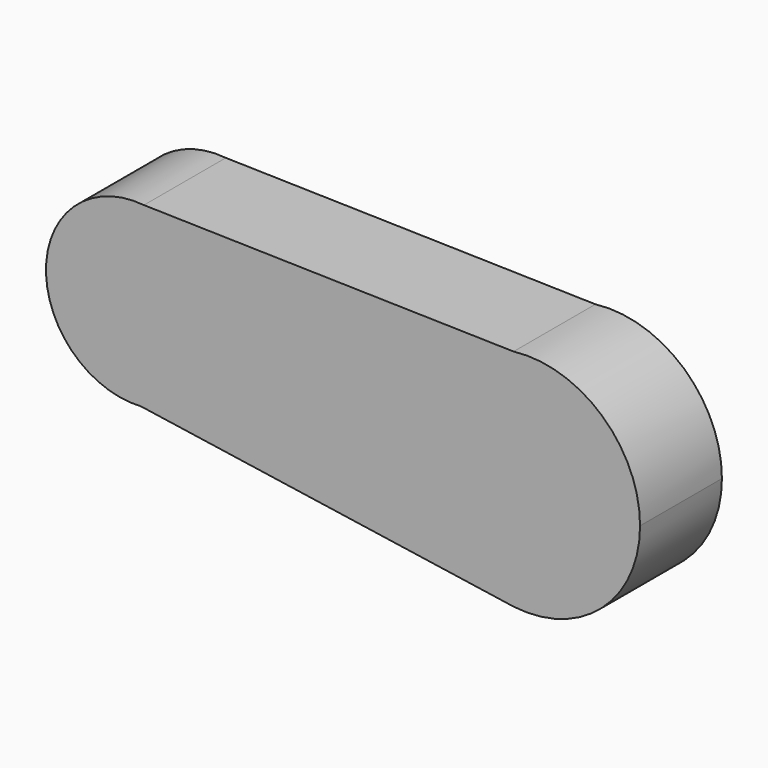
from build123d import *

# Parameters (mm, degrees)
F1_DEPTH = 25.4


with BuildPart() as f1:
    # F0 (on Front) → F1 (new body)
    with BuildSketch(Plane.XZ):
        with BuildLine():
            ThreePointArc((-50.1985410515, -3.0336563379), (-35.4169982156, 3.9198104718), (-29.4029262425, 19.1078204662))
            ThreePointArc((-29.4029262425, 19.1078204662), (-35.1645690655, 34.0225073814), (-49.4568010062, 41.1902490029))
            ThreePointArc((-49.4568010062, 41.1902490029), (-73.7698622783, 19.479863808), (-50.1985410515, -3.0336563379))
        make_face()
        with BuildLine():
            ThreePointArc((-49.4568010062, 41.1902490029), (-35.1645690655, 34.0225073814), (-29.4029262425, 19.1078204662))
            ThreePointArc((-29.4029262425, 19.1078204662), (-35.4169982156, 3.9198104718), (-50.1985410515, -3.0336563379))
            Line((-50.1985410515, -3.0336563379), (40.7351199122, -16.4877974842))
            ThreePointArc((40.7351199122, -16.4877974842), (17.5593068058, 11.9397889616), (42.2886944167, 39.0267484192))
            Line((42.2886944167, 39.0267484192), (-49.4568010062, 41.1902490029))
        make_face()
        with BuildLine():
            ThreePointArc((73.6891788728, 11.1545454711), (64.2530314153, 32.147699839), (42.2886944167, 39.0267484192))
            ThreePointArc((42.2886944167, 39.0267484192), (17.5593068058, 11.9397889616), (40.7351199122, -16.4877974842))
            Line((40.7351199122, -16.4877974842), (42.2886944167, -16.7176574771))
            ThreePointArc((42.2886944167, -16.7176574771), (64.2530314153, -9.8386088968), (73.6891788728, 11.1545454711))
        make_face()
        with BuildLine():
            Line((42.2886944167, -16.7176574771), (40.7351199122, -16.4877974842))
            ThreePointArc((40.7351199122, -16.4877974842), (41.5102993213, -16.6135945486), (42.2886944167, -16.7176574771))
        make_face()
    extrude(amount=F1_DEPTH)


solid = f1.part
